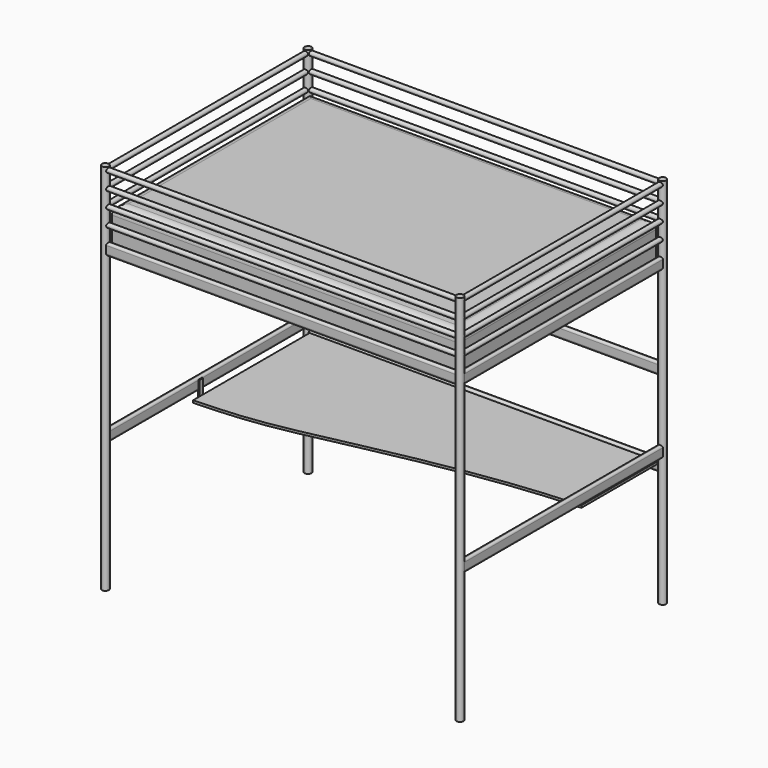
from build123d import *

# Parameters (mm, degrees)
F0_R      = 19.05
F1_DEPTH  = 2057.4
F2_R      = 12.7078530606
F3_DEPTH  = 987.298
F4_R      = 12.7
F5_DEPTH  = 703.326
F7_START  = 1625.6
F6_W      = 63.5
F6_H      = 673.1
F6_W_2    = 946.15
F6_H_2    = 50.8
F7_DEPTH  = 25.4
F8_W      = 925.2605671883
F8_H      = 653.7110634804
F9_DEPTH  = 213.36
F10_R     = 50.8
F12_START = 673.1
F12_DEPTH = 12.7
F13_W     = 25.4
F13_H     = 79.6530117886
F13_H_2   = 12.7
F14_DEPTH = 7.62


with BuildPart() as f1:
    # F0 (on Top) → F1 (new body)
    with BuildSketch(Plane.XY):
        with Locations((-977.9, 698.5)):
            Circle(F0_R)
    extrude(amount=F1_DEPTH)



with BuildPart() as f1b:
    # F0 (on Top) → F1, piece 2 (new body)
    with BuildSketch(Plane.XY):
        with Locations((977.9, 698.5)):
            Circle(F0_R)
    extrude(amount=F1_DEPTH)


with BuildPart() as f1c:
    # F0 (on Top) → F1, piece 3 (new body)
    with BuildSketch(Plane.XY):
        with Locations((977.9, -698.5)):
            Circle(F0_R)
    extrude(amount=F1_DEPTH)



with BuildPart() as f1d:
    # F0 (on Top) → F1, piece 4 (new body)
    with BuildSketch(Plane.XY):
        with Locations((-977.9, -698.5)):
            Circle(F0_R)
    extrude(amount=F1_DEPTH)


with BuildPart() as f1c_1:
    add(f1c.part)

    add(f1d.part)  # F3 merges F1d
    # F2 (on Right) → F3 (join, symmetric)
    with BuildSketch(Plane.YZ):
        with Locations((-698.5, 1949.45)):
            Circle(F2_R)
        with Locations((-698.5, 2038.35)):
            Circle(F2_R)
        with Locations((-698.5, 1860.55)):
            Circle(F2_R)
        with Locations((-698.5, 1771.65)):
            Circle(F2_R)
        with BuildLine():
            ThreePointArc((-685.8, 1677.67), (-689.147769491, 1685.752230509), (-697.23, 1689.1))
            Line((-697.23, 1689.1), (-699.77, 1689.1))
            ThreePointArc((-699.77, 1689.1), (-707.852230509, 1685.752230509), (-711.2, 1677.67))
            Line((-711.2, 1677.67), (-711.2, 1637.03))
            ThreePointArc((-711.2, 1637.03), (-707.852230509, 1628.947769491), (-699.77, 1625.6))
            Line((-699.77, 1625.6), (-697.23, 1625.6))
            ThreePointArc((-697.23, 1625.6), (-689.147769491, 1628.947769491), (-685.8, 1637.03))
            Line((-685.8, 1637.03), (-685.8, 1677.67))
        make_face()
    extrude(amount=F3_DEPTH, both=True)


with BuildPart() as f1_1:
    add(f1.part)

    add(f1b.part)  # F3#2 merges F1b
    # F2 (on Right) → F3, piece 2 (join, symmetric)
    with BuildSketch(Plane.YZ):
        with Locations((698.5, 1771.65)):
            Circle(F2_R)
        with Locations((698.5, 1860.55)):
            Circle(F2_R)
        with Locations((698.5, 1949.45)):
            Circle(F2_R)
        with Locations((698.5, 2038.35)):
            Circle(F2_R)
        with BuildLine():
            ThreePointArc((697.23, 1689.1), (689.147769491, 1685.752230509), (685.8, 1677.67))
            Line((685.8, 1677.67), (685.8, 1637.03))
            ThreePointArc((685.8, 1637.03), (689.147769491, 1628.947769491), (697.23, 1625.6))
            Line((697.23, 1625.6), (699.77, 1625.6))
            ThreePointArc((699.77, 1625.6), (707.852230509, 1628.947769491), (711.2, 1637.03))
            Line((711.2, 1637.03), (711.2, 1677.67))
            ThreePointArc((711.2, 1677.67), (707.852230509, 1685.752230509), (699.77, 1689.1))
            Line((699.77, 1689.1), (697.23, 1689.1))
        make_face()
        with BuildLine():
            ThreePointArc((697.23, 1168.3999803543), (689.147769491, 1165.0522108633), (685.8, 1156.9699803543))
            Line((685.8, 1156.9699803543), (685.8, 1116.3299803543))
            ThreePointArc((685.8, 1116.3299803543), (689.147769491, 1108.2477498453), (697.23, 1104.8999803543))
            Line((697.23, 1104.8999803543), (699.77, 1104.8999803543))
            ThreePointArc((699.77, 1104.8999803543), (707.852230509, 1108.2477498453), (711.2, 1116.3299803543))
            Line((711.2, 1116.3299803543), (711.2, 1156.9699803543))
            ThreePointArc((711.2, 1156.9699803543), (707.852230509, 1165.0522108633), (699.77, 1168.3999803543))
            Line((699.77, 1168.3999803543), (697.23, 1168.3999803543))
        make_face()
        with BuildLine():
            ThreePointArc((697.23, 698.6188541412), (689.147769491, 695.2710846502), (685.8, 687.1888541412))
            Line((685.8, 687.1888541412), (685.8, 646.5488541412))
            ThreePointArc((685.8, 646.5488541412), (689.147769491, 638.4666236323), (697.23, 635.1188541412))
            Line((697.23, 635.1188541412), (699.77, 635.1188541412))
            ThreePointArc((699.77, 635.1188541412), (707.852230509, 638.4666236323), (711.2, 646.5488541412))
            Line((711.2, 646.5488541412), (711.2, 687.1888541412))
            ThreePointArc((711.2, 687.1888541412), (707.852230509, 695.2710846502), (699.77, 698.6188541412))
            Line((699.77, 698.6188541412), (697.23, 698.6188541412))
        make_face()
    extrude(amount=F3_DEPTH, both=True)


    add(f1c_1.part)  # F5 merges F1c
    # F4 (on Front) → F5 (join, symmetric)
    with BuildSketch(Plane.XZ):
        with Locations((977.9, 2038.35)):
            Circle(F4_R)
        with Locations((977.9, 1949.45)):
            Circle(F4_R)
        with Locations((977.9, 1860.55)):
            Circle(F4_R)
        with Locations((977.9, 1771.65)):
            Circle(F4_R)
        with Locations((-977.9, 1771.65)):
            Circle(F4_R)
        with Locations((-977.9, 1860.55)):
            Circle(F4_R)
        with Locations((-977.9, 1949.45)):
            Circle(F4_R)
        with Locations((-977.9, 2038.35)):
            Circle(F4_R)
        with BuildLine():
            ThreePointArc((-965.2, 1677.67), (-968.547769491, 1685.752230509), (-976.63, 1689.1))
            Line((-976.63, 1689.1), (-979.17, 1689.1))
            ThreePointArc((-979.17, 1689.1), (-987.252230509, 1685.752230509), (-990.6, 1677.67))
            Line((-990.6, 1677.67), (-990.6, 1637.03))
            ThreePointArc((-990.6, 1637.03), (-987.252230509, 1628.947769491), (-979.17, 1625.6))
            Line((-979.17, 1625.6), (-976.63, 1625.6))
            ThreePointArc((-976.63, 1625.6), (-968.547769491, 1628.947769491), (-965.2, 1637.03))
            Line((-965.2, 1637.03), (-965.2, 1677.67))
        make_face()
        with BuildLine():
            ThreePointArc((976.63, 1689.1), (968.547769491, 1685.752230509), (965.2, 1677.67))
            Line((965.2, 1677.67), (965.2, 1637.03))
            ThreePointArc((965.2, 1637.03), (968.547769491, 1628.947769491), (976.63, 1625.6))
            Line((976.63, 1625.6), (979.17, 1625.6))
            ThreePointArc((979.17, 1625.6), (987.252230509, 1628.947769491), (990.6, 1637.03))
            Line((990.6, 1637.03), (990.6, 1677.67))
            ThreePointArc((990.6, 1677.67), (987.252230509, 1685.752230509), (979.17, 1689.1))
            Line((979.17, 1689.1), (976.63, 1689.1))
        make_face()
        with BuildLine():
            Line((-965.2, 722.63), (-965.2, 763.27))
            ThreePointArc((-965.2, 763.27), (-968.547769491, 771.352230509), (-976.63, 774.7))
            Line((-976.63, 774.7), (-979.17, 774.7))
            ThreePointArc((-979.17, 774.7), (-987.252230509, 771.352230509), (-990.6, 763.27))
            Line((-990.6, 763.27), (-990.6, 722.63))
            ThreePointArc((-990.6, 722.63), (-987.252230509, 714.547769491), (-979.17, 711.2))
            Line((-979.17, 711.2), (-976.63, 711.2))
            ThreePointArc((-976.63, 711.2), (-968.547769491, 714.547769491), (-965.2, 722.63))
        make_face()
        with BuildLine():
            Line((990.6, 722.63), (990.6, 763.27))
            ThreePointArc((990.6, 763.27), (987.252230509, 771.352230509), (979.17, 774.7))
            Line((979.17, 774.7), (976.63, 774.7))
            ThreePointArc((976.63, 774.7), (968.547769491, 771.352230509), (965.2, 763.27))
            Line((965.2, 763.27), (965.2, 722.63))
            ThreePointArc((965.2, 722.63), (968.547769491, 714.547769491), (976.63, 711.2))
            Line((976.63, 711.2), (979.17, 711.2))
            ThreePointArc((979.17, 711.2), (987.252230509, 714.547769491), (990.6, 722.63))
        make_face()
        with BuildLine():
            ThreePointArc((976.63, 1689.1), (968.547769491, 1685.752230509), (965.2, 1677.67))
            Line((965.2, 1677.67), (965.2, 1637.03))
            ThreePointArc((965.2, 1637.03), (968.547769491, 1628.947769491), (976.63, 1625.6))
            Line((976.63, 1625.6), (979.17, 1625.6))
            ThreePointArc((979.17, 1625.6), (987.252230509, 1628.947769491), (990.6, 1637.03))
            Line((990.6, 1637.03), (990.6, 1677.67))
            ThreePointArc((990.6, 1677.67), (987.252230509, 1685.752230509), (979.17, 1689.1))
            Line((979.17, 1689.1), (976.63, 1689.1))
        make_face()
    extrude(amount=F5_DEPTH, both=True)

    # F6 (on Top) → F7 (join)
    with BuildSketch(Plane.XY.offset(F7_START)):
        with Locations((0, 361.95)):
            Rectangle(F6_W, F6_H)
        with Locations((-504.825, 0)):
            Rectangle(F6_W_2, F6_H_2)
        with Locations((504.825, 0)):
            Rectangle(F6_W_2, F6_H_2)
        with Locations((0, -361.95)):
            Rectangle(F6_W, F6_H)
        Rectangle(F6_W, F6_H_2)
    extrude(amount=F7_DEPTH)

    # F11 (on Top) → F12 (join)
    with BuildSketch(Plane.XY.offset(F12_START)):
        with BuildLine():
            Line((958.85, 695.2586183469), (-958.85, 695.2586183469))
            Line((-958.85, 695.2586183469), (-958.85, -117.5413816531))
            add(Edge.make_bspline(
                [(958.85, 161.8586183469), (587.8021059207, 145.6059711183), (-16.292714741, 34.5832687407), (-558.6003144029, -91.9113972662), (-771.8809122259, -110.4564108489), (-958.85, -117.5413816531)],
                knots=[0, 0, 0, 0, 0.4261948264, 0.7284752212, 1, 1, 1, 1], degree=3))
            Line((958.85, 161.8586183469), (958.85, 695.2586183469))
        make_face()
    extrude(amount=F12_DEPTH)

    # F13 (on face) → F14 (join)
    with BuildSketch(Plane(origin=(-958.85, 0, 0), x_dir=(0, -1, 0), z_dir=(-1, 0, 0))):
        with Locations((60.3913816531, 725.6265058943)):
            Rectangle(F13_W, F13_H)
        with Locations((60.3913816531, 679.45)):
            Rectangle(F13_W, F13_H_2)
    extrude(amount=F14_DEPTH)


with BuildPart() as f9:
    # F8 (on face) → F9 (new body)
    with BuildSketch(Plane.XY.offset(1651)):
        with Locations((-494.3802835941, 352.2555317402)):
            Rectangle(F8_W, F8_H)
        with Locations((494.3802835941, 352.2555317402)):
            Rectangle(F8_W, F8_H)
        with Locations((494.3802835941, -352.2555317402)):
            Rectangle(F8_W, F8_H)
        with Locations((-494.3802835941, -352.2555317402)):
            Rectangle(F8_W, F8_H)
        Polygon((31.75, 25.4), (31.75, 679.1110634804), (-31.75, 679.1110634804), (-31.75, 25.4), (-957.0105671883, 25.4), (-957.0105671883, -25.4), (-31.75, -25.4), (-31.75, -679.1110634804), (31.75, -679.1110634804), (31.75, -25.4), (957.0105671883, -25.4), (957.0105671883, 25.4), align=None)
    extrude(amount=F9_DEPTH)

    # F10
    f10_edges = [f9.edges().sort_by_distance(p)[0] for p in [
        (0, 679.111063, 1864.36),
        (957.010567, 0, 1864.36),
        (0, -679.111063, 1864.36),
        (-957.010567, 0, 1864.36),
    ]]
    fillet(f10_edges, radius=F10_R)


solid = Compound([f1_1.part, f9.part])
